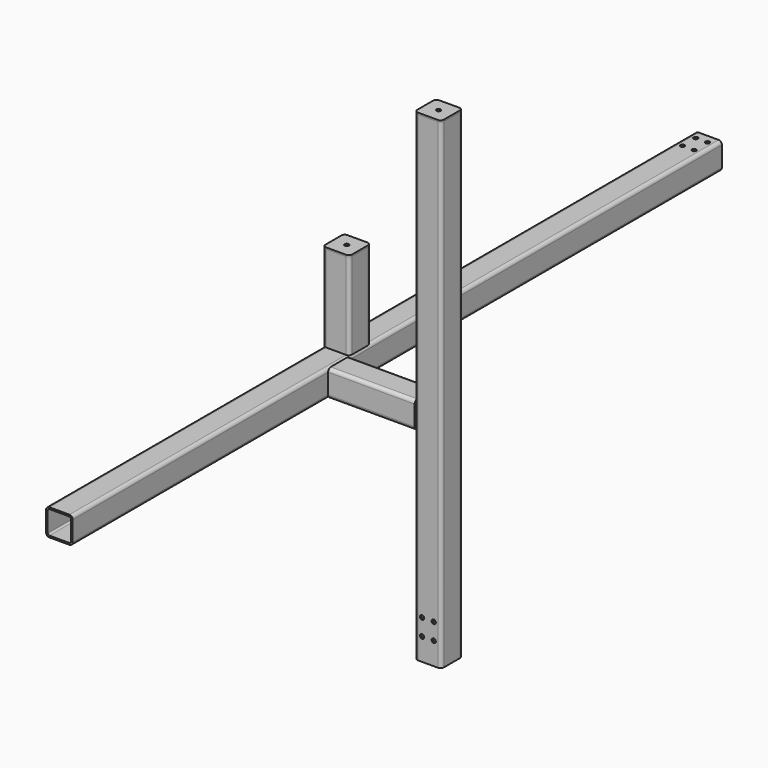
from build123d import *

# Parameters (mm, degrees)
F1_DEPTH      = 1445
F3_DEPTH      = 260
F5_DEPTH      = 1000
F5_DEPTH_BACK = 1440
F6_R          = 6.25
F7_DEPTH      = 685.001
F8_R          = 6.25
F9_DEPTH      = 1480.001
F10_R         = 6.25
F11_DEPTH     = 5
F13_DEPTH     = 260
F14_R         = 6.25
F15_DEPTH     = 5


with BuildPart() as f1:
    # F0 (on Top) → F1 (new body)
    with BuildSketch(Plane.XY):
        with BuildLine():
            ThreePointArc((40, 30), (37.0710678119, 37.0710678119), (30, 40))
            Line((30, 40), (-30, 40))
            ThreePointArc((-30, 40), (-37.0710678119, 37.0710678119), (-40, 30))
            Line((-40, 30), (-40, -30))
            ThreePointArc((-40, -30), (-37.0710678119, -37.0710678119), (-30, -40))
            Line((-30, -40), (30, -40))
            ThreePointArc((30, -40), (37.0710678119, -37.0710678119), (40, -30))
            Line((40, -30), (40, 30))
        make_face()
        with BuildLine():
            ThreePointArc((30, 35.000000149), (33.5355340113, 33.5355340113), (35.000000149, 30))
            Line((35.000000149, 30), (35.000000149, -30))
            ThreePointArc((35.000000149, -30), (33.5355340113, -33.5355340113), (30, -35.000000149))
            Line((30, -35.000000149), (-30, -35.000000149))
            ThreePointArc((-30, -35.000000149), (-33.5355340113, -33.5355340113), (-35.000000149, -30))
            Line((-35.000000149, -30), (-35.000000149, 30))
            ThreePointArc((-35.000000149, 30), (-33.5355340113, 33.5355340113), (-30, 35.000000149))
            Line((-30, 35.000000149), (30, 35.000000149))
        make_face(mode=Mode.SUBTRACT)
    extrude(amount=F1_DEPTH)

    # F8 (on face) → F9 (cut, through all)
    with BuildSketch(Plane.XZ.offset(40)):
        with Locations((-17.5, 117.5)):
            Circle(F8_R)
        with Locations((-17.5, 67.5)):
            Circle(F8_R)
        with Locations((17.5, 67.5)):
            Circle(F8_R)
        with Locations((17.5, 117.5)):
            Circle(F8_R)
    extrude(amount=-F9_DEPTH, mode=Mode.SUBTRACT)


with BuildPart() as f3:
    # F2 (on face) → F3 (new body)
    with BuildSketch(Plane(origin=(-40, 0, 0), x_dir=(0, -1, 0), z_dir=(-1, 0, 0))):
        with BuildLine():
            ThreePointArc((40, 675), (37.0710678119, 682.0710678119), (30, 685))
            Line((30, 685), (-30, 685))
            ThreePointArc((-30, 685), (-37.0710678119, 682.0710678119), (-40, 675))
            Line((-40, 675), (-40, 615))
            ThreePointArc((-40, 615), (-37.0710678119, 607.9289321881), (-30, 605))
            Line((-30, 605), (30, 605))
            ThreePointArc((30, 605), (37.0710678119, 607.9289321881), (40, 615))
            Line((40, 615), (40, 675))
        make_face()
        with BuildLine():
            ThreePointArc((30, 680.0000023842), (33.5355355918, 678.5355355918), (35.0000023842, 675))
            Line((35.0000023842, 675), (35.0000023842, 615))
            ThreePointArc((35.0000023842, 615), (33.5355355918, 611.4644644082), (30, 609.9999976158))
            Line((30, 609.9999976158), (-30, 609.9999976158))
            ThreePointArc((-30, 609.9999976158), (-33.5355355918, 611.4644644082), (-35.0000023842, 615))
            Line((-35.0000023842, 615), (-35.0000023842, 675))
            ThreePointArc((-35.0000023842, 675), (-33.5355355918, 678.5355355918), (-30, 680.0000023842))
            Line((-30, 680.0000023842), (30, 680.0000023842))
        make_face(mode=Mode.SUBTRACT)
    extrude(amount=F3_DEPTH)


with BuildPart() as f5:
    # F4 (on Front) → F5 (new body, two sides)
    with BuildSketch(Plane.XZ) as f5_sk:
        with BuildLine():
            Line((-310, 685), (-370, 685))
            ThreePointArc((-370, 685), (-377.0710678119, 682.0710678119), (-380, 675))
            Line((-380, 675), (-380, 615))
            ThreePointArc((-380, 615), (-377.0710678119, 607.9289321881), (-370, 605))
            Line((-370, 605), (-310, 605))
            ThreePointArc((-310, 605), (-302.9289321881, 607.9289321881), (-300, 615))
            Line((-300, 615), (-300, 675))
            ThreePointArc((-300, 675), (-302.9289321881, 682.0710678119), (-310, 685))
        make_face()
        with BuildLine():
            ThreePointArc((-375, 675), (-373.5355339059, 678.5355339059), (-370, 680))
            Line((-370, 680), (-310, 680))
            ThreePointArc((-310, 680), (-306.4644660941, 678.5355339059), (-305, 675))
            Line((-305, 675), (-305, 615))
            ThreePointArc((-305, 615), (-306.4644660941, 611.4644660941), (-310, 610))
            Line((-310, 610), (-370, 610))
            ThreePointArc((-370, 610), (-373.5355339059, 611.4644660941), (-375, 615))
            Line((-375, 615), (-375, 675))
        make_face(mode=Mode.SUBTRACT)
    extrude(amount=F5_DEPTH)
    extrude(f5_sk.sketch, amount=-F5_DEPTH_BACK)

    # F6 (on face) → F7 (cut, through all)
    with BuildSketch(Plane.XY.offset(685)):
        with Locations((-357.5, 1413.75)):
            Circle(F6_R)
        with Locations((-357.5, 1363.75)):
            Circle(F6_R)
        with Locations((-322.5, 1363.75)):
            Circle(F6_R)
        with Locations((-322.5, 1413.75)):
            Circle(F6_R)
    extrude(amount=-F7_DEPTH, mode=Mode.SUBTRACT)


with BuildPart() as f11:
    # F10 (on face) → F11 (new body)
    with BuildSketch(Plane.XY.offset(1445)):
        with BuildLine():
            Line((30, 40), (-30, 40))
            ThreePointArc((-30, 40), (-37.0710678119, 37.0710678119), (-40, 30))
            Line((-40, 30), (-40, -30))
            ThreePointArc((-40, -30), (-37.0710678119, -37.0710678119), (-30, -40))
            Line((-30, -40), (30, -40))
            ThreePointArc((30, -40), (37.0710678119, -37.0710678119), (40, -30))
            Line((40, -30), (40, 30))
            ThreePointArc((40, 30), (37.0710678119, 37.0710678119), (30, 40))
        make_face()
        Circle(F10_R, mode=Mode.SUBTRACT)
    extrude(amount=F11_DEPTH)


with BuildPart() as f13:
    # F12 (on face) → F13 (new body)
    with BuildSketch(Plane.XY.offset(685)):
        with BuildLine():
            ThreePointArc((-300, 110), (-302.9289321881, 117.0710678119), (-310, 120))
            Line((-310, 120), (-370, 120))
            ThreePointArc((-370, 120), (-377.0710678119, 117.0710678119), (-380, 110))
            Line((-380, 110), (-380, 50))
            ThreePointArc((-380, 50), (-377.0710678119, 42.9289321881), (-370, 40))
            Line((-370, 40), (-310, 40))
            ThreePointArc((-310, 40), (-302.9289321881, 42.9289321881), (-300, 50))
            Line((-300, 50), (-300, 110))
        make_face()
        with BuildLine():
            ThreePointArc((-310, 115.0000020862), (-306.4644646189, 113.5355353811), (-304.9999979138, 110))
            Line((-304.9999979138, 110), (-304.9999979138, 50))
            ThreePointArc((-304.9999979138, 50), (-306.4644646189, 46.4644646189), (-310, 44.9999979138))
            Line((-310, 44.9999979138), (-370, 44.9999979138))
            ThreePointArc((-370, 44.9999979138), (-373.5355353811, 46.4644646189), (-375.0000020862, 50))
            Line((-375.0000020862, 50), (-375.0000020862, 110))
            ThreePointArc((-375.0000020862, 110), (-373.5355353811, 113.5355353811), (-370, 115.0000020862))
            Line((-370, 115.0000020862), (-310, 115.0000020862))
        make_face(mode=Mode.SUBTRACT)
    extrude(amount=F13_DEPTH)


with BuildPart() as f15:
    # F14 (on face) → F15 (new body)
    with BuildSketch(Plane.XY.offset(945)):
        with BuildLine():
            ThreePointArc((-300, 110), (-302.9289321881, 117.0710678119), (-310, 120))
            Line((-310, 120), (-370, 120))
            ThreePointArc((-370, 120), (-377.0710678119, 117.0710678119), (-380, 110))
            Line((-380, 110), (-380, 50))
            ThreePointArc((-380, 50), (-377.0710678119, 42.9289321881), (-370, 40))
            Line((-370, 40), (-310, 40))
            ThreePointArc((-310, 40), (-302.9289321881, 42.9289321881), (-300, 50))
            Line((-300, 50), (-300, 110))
        make_face()
        with Locations((-340, 80)):
            Circle(F14_R, mode=Mode.SUBTRACT)
    extrude(amount=F15_DEPTH)


solid = Compound([f1.part, f3.part, f5.part, f11.part, f13.part, f15.part])
